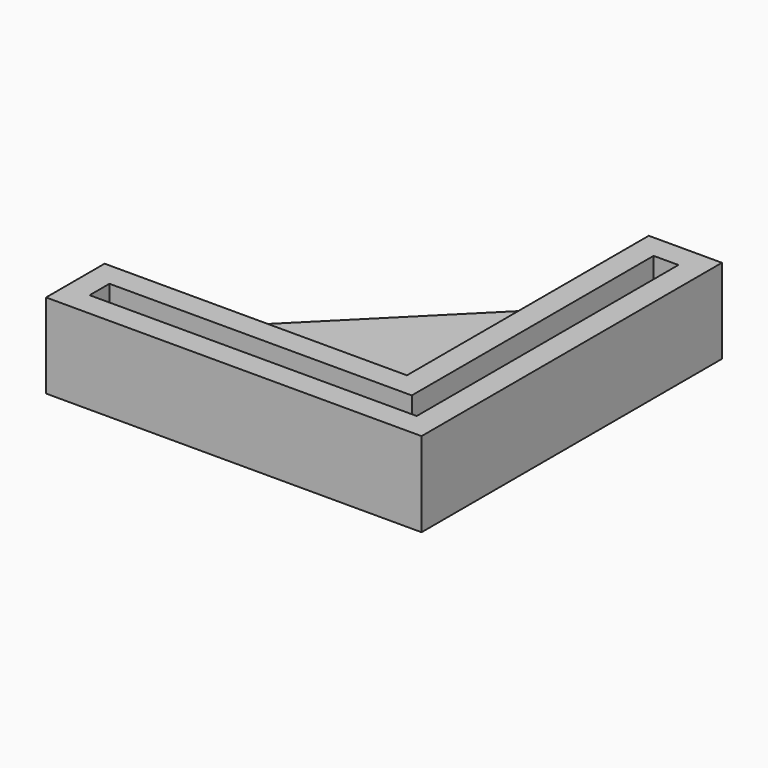
from build123d import *

# Parameters (mm, degrees)
F0_W     = 0.82
F0_H     = 0.8
F0_W_2   = 0.8
F0_H_2   = 0.82
F1_DEPTH = 2
F2_DEPTH = 0.8


with BuildPart() as f1:
    # F0 (on Top) → F1 (new body)
    with BuildSketch(Plane.XY):
        Polygon((-10.41, 0.41), (-0.41, 0.41), (-0.41, 10.41), (0.41, 10.41), (0.41, 0.41), (1.21, 0.41), (1.21, 1.21), (1.21, 11.21), (-1.21, 11.21), (-1.21, 1.21), (-11.21, 1.21), (-11.21, -1.21), (-1.21, -1.21), (-0.41, -1.21), (-0.41, -0.41), (-10.41, -0.41), align=None)
        with Locations((0, -0.81)):
            Rectangle(F0_W, F0_H)
        with Locations((0.81, 0)):
            Rectangle(F0_W_2, F0_H_2)
        with Locations((0.81, -0.81)):
            Rectangle(F0_W_2, F0_H)
    extrude(amount=F1_DEPTH)

    # F0 (on Top) + F1_face (on face) → F2 (join)
    with BuildSketch(Plane.XY):
        Polygon((-1.21, 1.21), (-1.21, 11.21), (-11.21, 1.21), align=None)
        Polygon((-10.41, 0.41), (-0.41, 0.41), (-0.41, 10.41), (0.41, 10.41), (0.41, 0.41), (1.21, 0.41), (1.21, 1.21), (1.21, 11.21), (-1.21, 11.21), (-1.21, 1.21), (-11.21, 1.21), (-11.21, -1.21), (-1.21, -1.21), (-0.41, -1.21), (-0.41, -0.41), (-10.41, -0.41), align=None)
        Polygon((-0.41, 10.41), (-0.41, 0.41), (-10.41, 0.41), (-10.41, -0.41), (-0.41, -0.41), (0.41, -0.41), (0.41, 0.41), (0.41, 10.41), align=None)
        with Locations((0, -0.81)):
            Rectangle(F0_W, F0_H)
        with Locations((0.81, 0)):
            Rectangle(F0_W_2, F0_H_2)
        with Locations((0.81, -0.81)):
            Rectangle(F0_W_2, F0_H)
    with BuildSketch(Plane(origin=(-2.8485370052, 2.8485370052, 2), x_dir=(1, 0, 0), z_dir=(0, 0, 1))):
        Polygon((-8.3614629948, -4.0585370052), (4.0585370052, -4.0585370052), (4.0585370052, 8.3614629948), (1.6385370052, 8.3614629948), (1.6385370052, -1.6385370052), (-8.3614629948, -1.6385370052), align=None)
        Polygon((3.2585370052, 7.5614629948), (3.2585370052, -3.2585370052), (-7.5614629948, -3.2585370052), (-7.5614629948, -2.4385370052), (2.4385370052, -2.4385370052), (2.4385370052, 7.5614629948), align=None, mode=Mode.SUBTRACT)
    extrude(amount=-F2_DEPTH)


solid = f1.part
